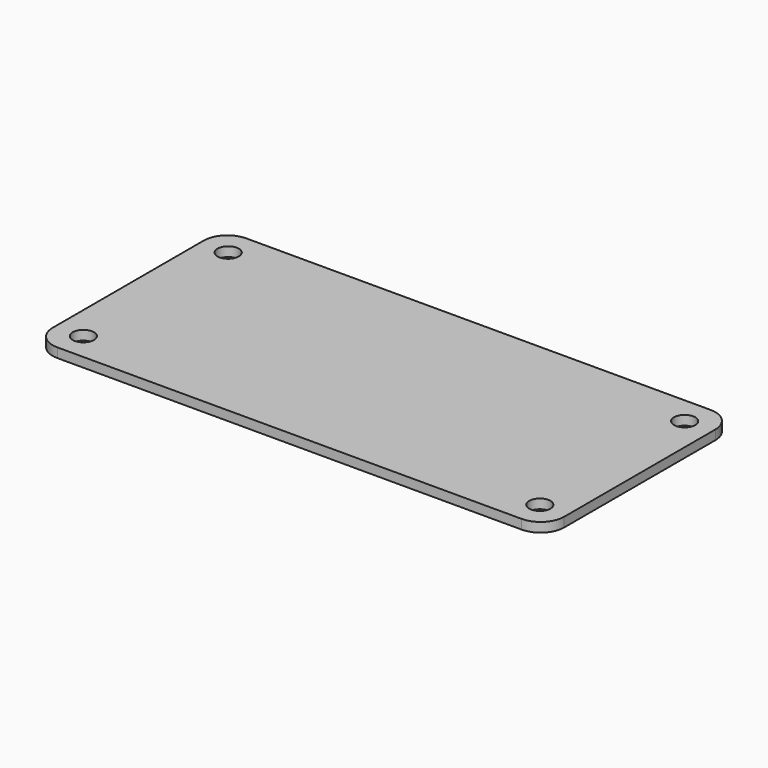
from build123d import *

# Parameters (mm, degrees)
SKETCH_R            = 1.35
PAD_DEPTH           = 1.2
SKETCH001_R         = 0.4
POCKET_DEPTH        = 0.001
LINEARPATTERN_COUNT = 20
LINEARPATTERN_PITCH = 2.368421


with BuildPart() as part:
    # Sketch → Pad (new body)
    with BuildSketch(Plane.XY):
        with BuildLine():
            Line((-32.5, 12), (-32.5, -12))
            ThreePointArc((-32.5, -12), (-31.62132, -14.12132), (-29.5, -15))
            Line((-29.5, -15), (29.5, -15))
            ThreePointArc((29.5, -15), (31.62132, -14.12132), (32.5, -12))
            Line((32.5, -12), (32.5, 12))
            ThreePointArc((32.5, 12), (31.62132, 14.12132), (29.5, 15))
            Line((29.5, 15), (-29.5, 15))
            ThreePointArc((-29.5, 15), (-31.62132, 14.12132), (-32.5, 12))
        make_face()
        with Locations((29, 11.5)):
            Circle(SKETCH_R, mode=Mode.SUBTRACT)
        with Locations((-29, 11.5)):
            Circle(SKETCH_R, mode=Mode.SUBTRACT)
        with Locations((-29, -11.5)):
            Circle(SKETCH_R, mode=Mode.SUBTRACT)
        with Locations((29, -11.5)):
            Circle(SKETCH_R, mode=Mode.SUBTRACT)
    extrude(amount=PAD_DEPTH)

    # Sketch001 → Pocket (cut, through all)
    with BuildSketch(Plane.XY):
        with Locations((-22.5, 12.75)):
            Circle(SKETCH001_R)
        with Locations((-22.5, 10.25)):
            Circle(SKETCH001_R)
    pocket = extrude(amount=-POCKET_DEPTH, mode=Mode.SUBTRACT)

    # LinearPattern: Pocket ×20
    with Locations(*[(i * LINEARPATTERN_PITCH, 0, 0) for i in range(1, LINEARPATTERN_COUNT)]):
        add(pocket, mode=Mode.SUBTRACT)


solid = part.part
